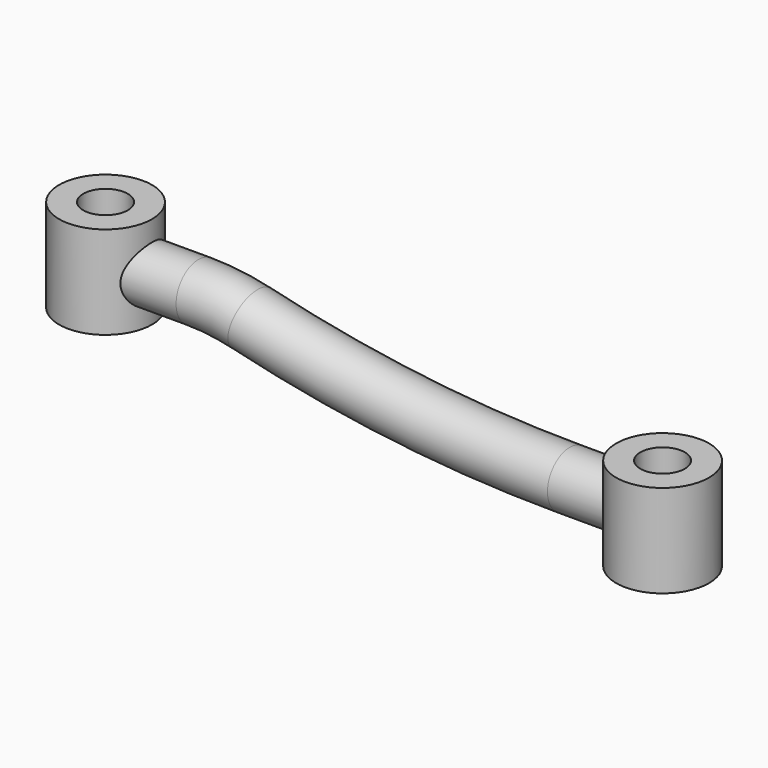
from build123d import *

# Parameters (mm, degrees)
F0_R          = 12.5
F0_R_2        = 6
F1_DEPTH      = 25
F2_DEPTH      = 12.5
F2_DEPTH_BACK = 12.5
F4_R          = 7.5
F6_R          = 6
F7_DEPTH      = 37.5010001
F8_R          = 6
F9_DEPTH      = 25.0010001


with BuildPart() as f1:
    # F0 (on Top) → F1 (new body)
    with BuildSketch(Plane.XY):
        Circle(F0_R)
        Circle(F0_R_2, mode=Mode.SUBTRACT)
    extrude(amount=F1_DEPTH)



with BuildPart() as f2:
    # F0 (on Top) → F2 (new body, two sides)
    with BuildSketch(Plane.XY) as f2_sk:
        with Locations((150, 0)):
            Circle(F0_R)
        with Locations((150, 0)):
            Circle(F0_R_2, mode=Mode.SUBTRACT)
    extrude(amount=F2_DEPTH)
    extrude(f2_sk.sketch, amount=-F2_DEPTH_BACK)


with BuildPart() as f1_1:
    add(f1.part)

    add(f2.part)  # F5 merges F2
    # F5: sweep along a path in F3
    with BuildLine(Plane.XZ) as f5_path:
        Line((0, 12), (25, 12))
        ThreePointArc((25, 12), (32.1487132371, 11.5726103092), (39.1955835962, 10.2965299685))
        ThreePointArc((39.1955835962, 10.2965299685), (81.789999989, 2.5833332421), (125, 0))
        Line((125, 0), (150, 0))
    # F4 (on Right) → F5 (sweep)
    with BuildSketch(Plane.YZ):
        with Locations((0, 12)):
            Circle(F4_R)
    sweep(path=f5_path.line)

    # F6 (on face) → F7 (cut, through all)
    with BuildSketch(Plane.XY.offset(25)):
        Circle(F6_R)
    extrude(amount=-F7_DEPTH, mode=Mode.SUBTRACT)

    # F8 (on face) → F9 (cut, through all)
    with BuildSketch(Plane.XY.offset(12.5)):
        with Locations((150, 0)):
            Circle(F8_R)
    extrude(amount=-F9_DEPTH, mode=Mode.SUBTRACT)


solid = f1_1.part
